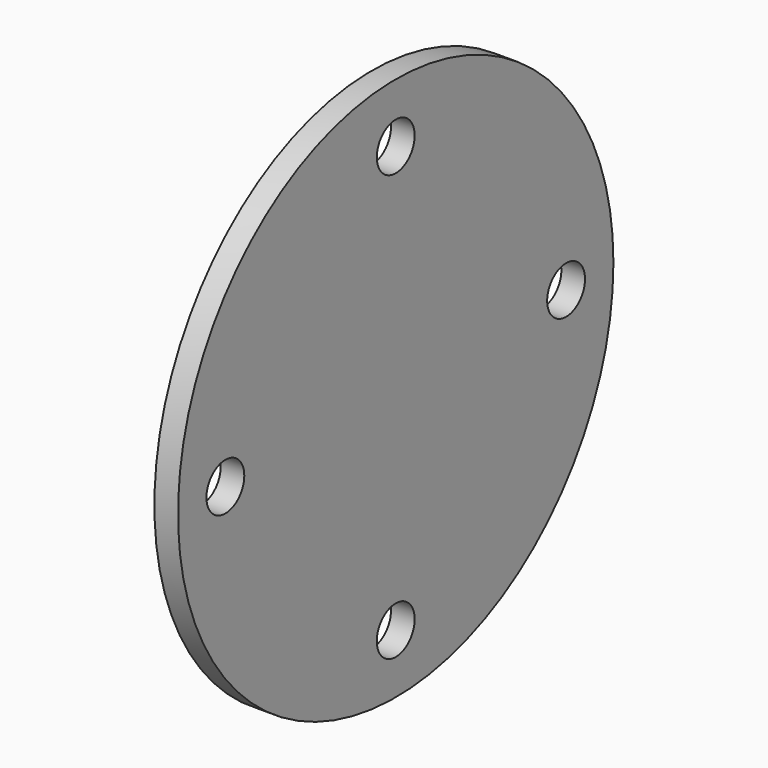
from build123d import *

# Parameters (mm, degrees)
F0_R     = 11.5
F1_DEPTH = 1
F2_R     = 1
F3_DEPTH = 1.001


with BuildPart() as f1:
    # F0 (on Right) → F1 (new body)
    with BuildSketch(Plane.YZ):
        Circle(F0_R)
    extrude(amount=F1_DEPTH)

    # F2 (on face) → F3 (cut, through all)
    with BuildSketch(Plane.YZ.offset(1)):
        with Locations((0, 9)):
            Circle(F2_R)
        with Locations((9, 0)):
            Circle(F2_R)
        with Locations((0, -9)):
            Circle(F2_R)
        with Locations((-9, 0)):
            Circle(F2_R)
    extrude(amount=-F3_DEPTH, mode=Mode.SUBTRACT)


solid = f1.part
